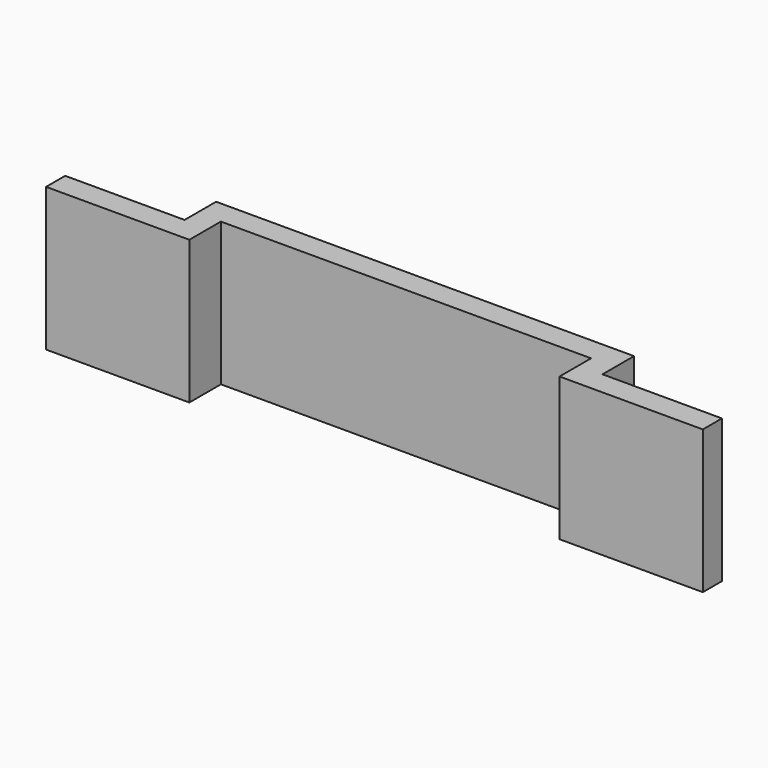
from build123d import *

# Parameters (mm, degrees)
EXTRUDE_DEPTH = 12


with BuildPart() as part:
    # Sketch → Extrude (new body)
    with BuildSketch(Plane.XY):
        Polygon((-27.5, 0), (-15.5, 0), (-15.5, 3.3), (15.5, 3.3), (15.5, 0), (27.5, 0), (27.5, 2), (17.5, 2), (17.5, 5.3), (-17.5, 5.3), (-17.5, 2), (-27.5, 2), align=None)
    extrude(amount=EXTRUDE_DEPTH)


solid = part.part
